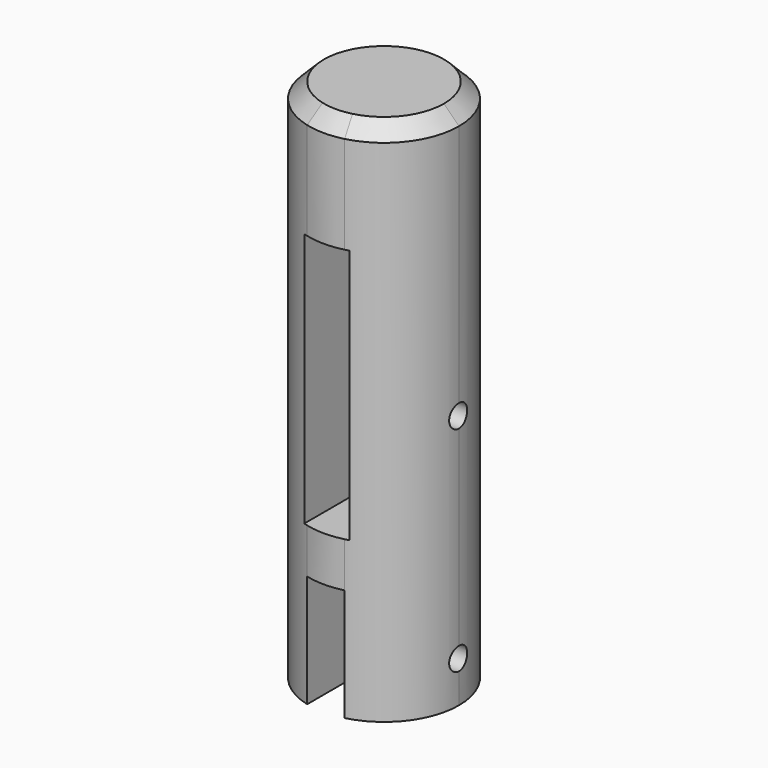
from build123d import *

# Parameters (mm, degrees)
F1_DEPTH = 55
F2_DEPTH = 15
F3_SIZE  = 2
F4_R     = 1.5
F5_DEPTH = 25
F6_W     = 6
F6_H     = 34
F7_DEPTH = 12.5
F8_R     = 1.5
F9_DEPTH = 12.5


with BuildPart() as f1:
    # F0 (on Top) → F1 (new body)
    with BuildSketch(Plane.XY):
        with BuildLine():
            ThreePointArc((2.5, -9.6824583655), (7.9056941504, -6.123724357), (10, 0))
            ThreePointArc((10, 0), (7.9056941504, 6.123724357), (2.5, 9.6824583655))
            Line((2.5, 9.6824583655), (2.5, -9.6824583655))
        make_face()
        with BuildLine():
            Line((2.5, -9.6824583655), (2.5, 9.6824583655))
            ThreePointArc((2.5, 9.6824583655), (0, 10), (-2.5, 9.6824583655))
            Line((-2.5, 9.6824583655), (-2.5, -9.6824583655))
            ThreePointArc((-2.5, -9.6824583655), (0, -10), (2.5, -9.6824583655))
        make_face()
        with BuildLine():
            Line((-2.5, -9.6824583655), (-2.5, 9.6824583655))
            ThreePointArc((-2.5, 9.6824583655), (-10, 0), (-2.5, -9.6824583655))
        make_face()
    extrude(amount=F1_DEPTH)

    # F0 (on Top) → F2 (join)
    with BuildSketch(Plane.XY):
        with BuildLine():
            Line((-2.5, -9.6824583655), (-2.5, 9.6824583655))
            ThreePointArc((-2.5, 9.6824583655), (-10, 0), (-2.5, -9.6824583655))
        make_face()
        with BuildLine():
            ThreePointArc((2.5, -9.6824583655), (7.9056941504, -6.123724357), (10, 0))
            ThreePointArc((10, 0), (7.9056941504, 6.123724357), (2.5, 9.6824583655))
            Line((2.5, 9.6824583655), (2.5, -9.6824583655))
        make_face()
    extrude(amount=-F2_DEPTH)

    # F3
    f3_edges = [f1.edges().sort_by_distance(p)[0] for p in [
        (2.5, -9.682458, 55),
    ]]
    chamfer(f3_edges, length=F3_SIZE)

    # F4 (on Right) → F5 (cut, symmetric)
    with BuildSketch(Plane.YZ):
        with Locations((0, -9.5)):
            Circle(F4_R)
    extrude(amount=F5_DEPTH, both=True, mode=Mode.SUBTRACT)

    # F6 (on Front) → F7 (cut, symmetric)
    with BuildSketch(Plane.XZ):
        with Locations((0, 23)):
            Rectangle(F6_W, F6_H)
    extrude(amount=F7_DEPTH, both=True, mode=Mode.SUBTRACT)

    # F8 (on Right) → F9 (cut, symmetric)
    with BuildSketch(Plane.YZ):
        with Locations((0, 19)):
            Circle(F8_R)
    extrude(amount=F9_DEPTH, both=True, mode=Mode.SUBTRACT)


solid = f1.part
